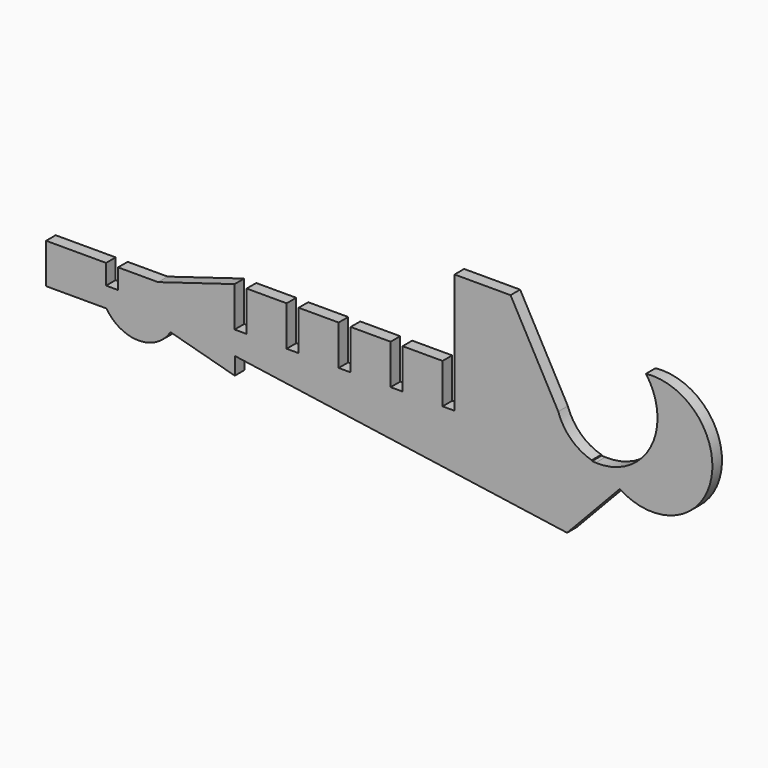
from build123d import *

# Parameters (mm, degrees)
F1_DEPTH = 3


with BuildPart() as f1:
    # F0 (on Front) → F1 (new body)
    with BuildSketch(Plane.XZ):
        with BuildLine():
            Line((-36.785731, 10), (-51.785731, 10))
            Line((-51.785731, 10), (-51.785731, 0))
            Line((-51.785731, 0), (-36.785731, 0))
            Line((-36.785731, 0), (-36.666999, 0))
            ThreePointArc((-36.666999, 0), (-28.666999, -4.433981), (-20.666999, 0))
            Line((-20.666999, 0), (-4.60982, -4.364454))
            Line((-4.60982, -4.364454), (-4.60982, 0))
            Line((-4.60982, 0), (78.480504, -11.91812))
            Line((78.480504, -11.91812), (91.646317, 2.007614))
            ThreePointArc((91.646317, 2.007614), (114.40079, 11.115801), (98.197224, 29.505187))
            ThreePointArc((98.197224, 29.505187), (99.359, 13.727695), (85.650786, 5.830618))
            ThreePointArc((85.650786, 5.830618), (85.195749, 5.854985), (84.741672, 5.893281))
            ThreePointArc((84.741672, 5.893281), (84.691969, 5.979948), (84.642764, 6.066899))
            ThreePointArc((84.642764, 6.066899), (79.456589, 9.015264), (76.264674, 14.055199))
            Line((76.264674, 14.055199), (64.344662, 35.789207))
            Line((64.344662, 35.789207), (50.344662, 35.789207))
            Line((50.344662, 35.789207), (50.344662, 5.789207))
            Line((50.344662, 5.789207), (47.344662, 5.789207))
            Line((47.344662, 5.789207), (47.344662, 15.789207))
            Line((47.344662, 15.789207), (37.358069, 15.789207))
            Line((37.358069, 15.789207), (37.358069, 5.789207))
            Line((37.358069, 5.789207), (34.358069, 5.789207))
            Line((34.358069, 5.789207), (34.358069, 15.789207))
            Line((34.358069, 15.789207), (24.358069, 15.789207))
            Line((24.358069, 15.789207), (24.358069, 5.789207))
            Line((24.358069, 5.789207), (21.358069, 5.789207))
            Line((21.358069, 5.789207), (21.358069, 15.789207))
            Line((21.358069, 15.789207), (11.358069, 15.789207))
            Line((11.358069, 15.789207), (11.358069, 5.789207))
            Line((11.358069, 5.789207), (8.358069, 5.789207))
            Line((8.358069, 5.789207), (8.358069, 15.789207))
            Line((8.358069, 15.789207), (-1.641931, 15.789207))
            Line((-1.641931, 15.789207), (-1.641931, 5.789207))
            Line((-1.641931, 5.789207), (-4.641931, 5.789207))
            Line((-4.641931, 5.789207), (-4.641931, 15.789207))
            Line((-4.641931, 15.789207), (-23.785731, 10))
            Line((-23.785731, 10), (-33.785731, 10))
            Line((-33.785731, 10), (-33.785731, 5))
            Line((-33.785731, 5), (-36.785731, 5))
            Line((-36.785731, 5), (-36.785731, 10))
        make_face()
    extrude(amount=F1_DEPTH)


solid = f1.part
